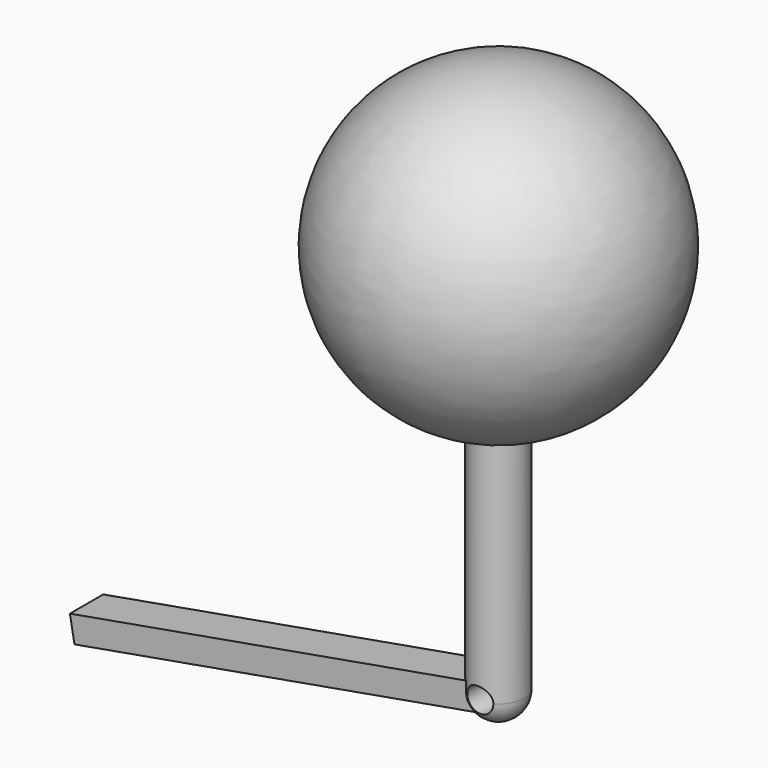
from build123d import *

# Parameters (mm, degrees)
F2_R     = 1.5875
F3_DEPTH = 12.7
F5_DEPTH = 2.54


with BuildPart() as f1:
    # F0 (on Front) → F1 (revolve)
    with BuildSketch(Plane.XZ):
        with BuildLine():
            Line((0, 19.05), (0, 0))
            Line((0, 0), (0, -50.8))
            ThreePointArc((0, -50.8), (2.245064, -49.870064), (3.175, -47.625))
            Line((3.175, -47.625), (3.175, -18.783553))
            ThreePointArc((3.175, -18.783553), (18.983271, 1.59308), (0, 19.05))
        make_face()
    revolve(axis=Axis((0, 0, 41.657603), (0, 0, 1)))

    # F2 (on Front) → F3 (cut, symmetric)
    with BuildSketch(Plane.XZ):
        with Locations((0, -47.625)):
            Circle(F2_R)
    extrude(amount=F3_DEPTH, both=True, mode=Mode.SUBTRACT)

    # F4 (on Front) → F5 (join, symmetric)
    with BuildSketch(Plane.XZ):
        with BuildLine():
            ThreePointArc((-1.5875, -47.625), (-1.216096, -46.604575), (-0.275666, -46.061618))
            Line((-0.275666, -46.061618), (-50.3039, -54.882945))
            Line((-50.3039, -54.882945), (-49.752567, -58.00971))
            Line((-49.752567, -58.00971), (0.275666, -49.188382))
            ThreePointArc((0.275666, -49.188382), (-1.020425, -48.841096), (-1.5875, -47.625))
        make_face()
    extrude(amount=F5_DEPTH, both=True)


solid = f1.part
